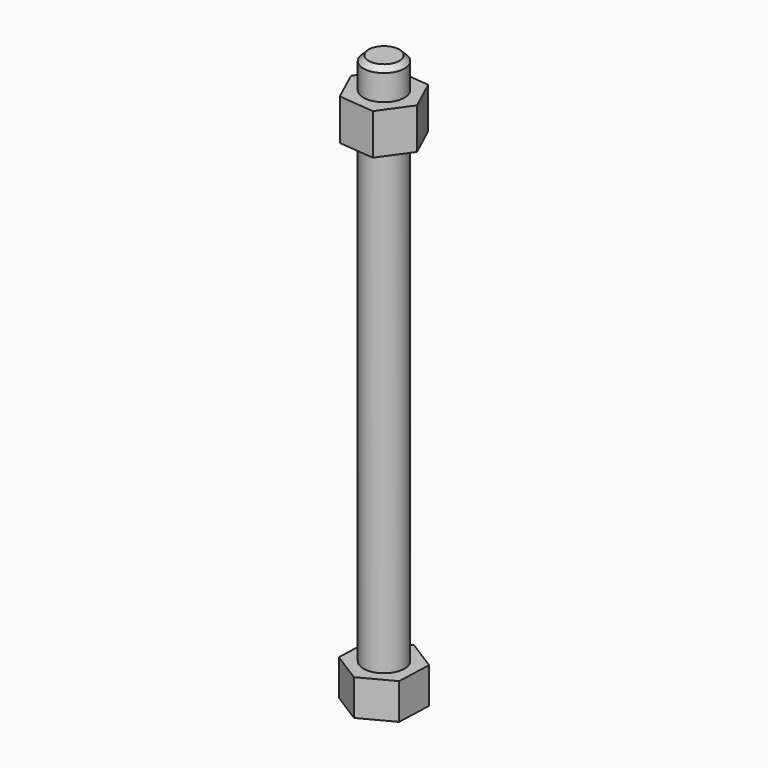
from build123d import *

# Parameters (mm, degrees)
F3_DEPTH = 7
F5_DEPTH = 8


with BuildPart() as f1:
    # F0 (on Front) → F1 (revolve)
    with BuildSketch(Plane.XZ):
        Polygon((4, 0), (4, 90), (0, 90), (0, 65), (0, 0), align=None)
    revolve(axis=Axis((0, 0, 32.5), (0, 0, -1)))

    # F2 (on face) → F3 (join)
    with BuildSketch(Plane(origin=(0, 0, 0), x_dir=(1, 0, 0), z_dir=(0, 0, -1))):
        Polygon((6.189313, -3.269925), (5.926495, 3.725139), (-0.262818, 6.995064), (-6.189313, 3.269925), (-5.926495, -3.725139), (0.262818, -6.995064), align=None)
    extrude(amount=F3_DEPTH)

    # F4 (on face) → F5 (join)
    with BuildSketch(Plane.XY.offset(90)):
        Polygon((6.968457, -0.663784), (4.059082, 5.702969), (-2.909374, 6.366753), (-6.968457, 0.663784), (-4.059082, -5.702969), (2.909374, -6.366753), align=None)
    extrude(amount=F5_DEPTH)


with BuildPart() as f7:
    # F6 (on Front) → F7 (revolve)
    with BuildSketch(Plane.XZ):
        Polygon((0, 104.079421), (0, 98.079421), (4, 98.079421), (4, 103.079421), (3, 104.079421), align=None)
    revolve(axis=Axis((0, 0, 101.079421), (0, 0, -1)))


solid = Compound([f1.part, f7.part])
